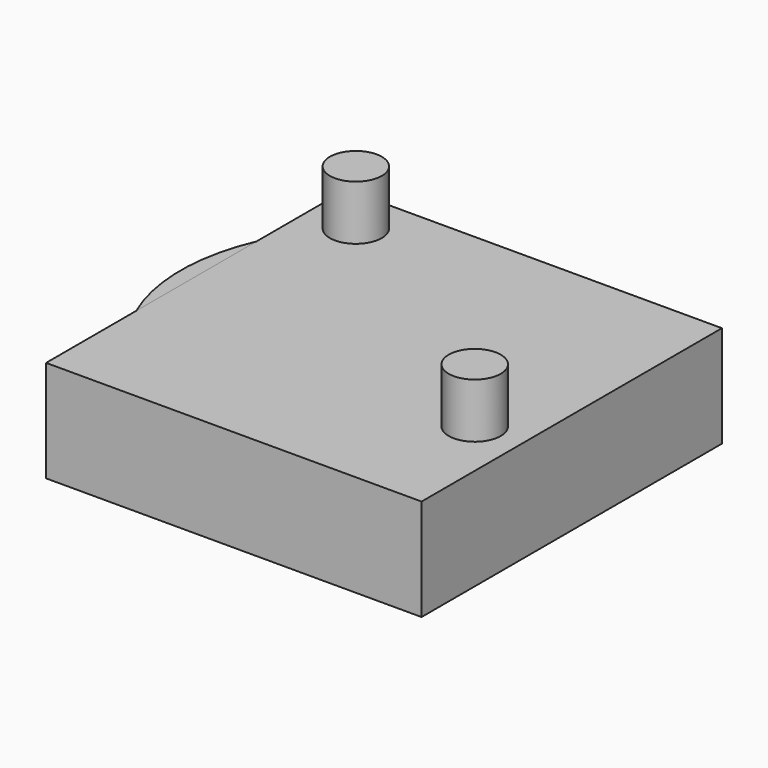
from build123d import *

# Parameters (mm, degrees)
CYLINDER027_R     = 4.55
CYLINDER027_DEPTH = 10
CYLINDER026_R     = 4.1
CYLINDER026_DEPTH = 10
CYLINDER033_R     = 1
CYLINDER033_DEPTH = 10
CYLINDER024_R     = 1.4
CYLINDER024_DEPTH = 10
ARRAY_COUNT       = 3
BOX001_W          = 9
BOX001_H          = 8
BOX001_DEPTH      = 2
FILLET_R          = 3
ARRAY001_COUNT    = 3
CYLINDER023_R     = 7
CYLINDER023_DEPTH = 2
CYLINDER034_R     = 2
CYLINDER034_DEPTH = 2
CYLINDER044_R     = 12
CYLINDER044_DEPTH = 6.5
CYLINDER_R        = 1.66
CYLINDER_DEPTH    = 10
BOX_W             = 24
BOX_H             = 24
BOX_DEPTH         = 6.5
CYLINDER045_R     = 1.66
CYLINDER045_DEPTH = 10
CYLINDER049_R     = 4.55
CYLINDER049_DEPTH = 10
CYLINDER048_R     = 4.1
CYLINDER048_DEPTH = 10
CYLINDER046_R     = 1
CYLINDER046_DEPTH = 10
CYLINDER047_R     = 1.4
CYLINDER047_DEPTH = 10
ARRAY002_COUNT    = 3
BOX002_W          = 9
BOX002_H          = 8
BOX002_DEPTH      = 2
FILLET001_R       = 3
ARRAY003_COUNT    = 3
CYLINDER050_R     = 7
CYLINDER050_DEPTH = 2
CYLINDER051_R     = 2
CYLINDER051_DEPTH = 2


with BuildPart() as mountplatelip:
    # Cylinder027 → Cylinder027 (new body)
    with BuildSketch(Plane.XY.offset(0.6)):
        Circle(CYLINDER027_R)
    extrude(amount=CYLINDER027_DEPTH)


with BuildPart() as mountplateinnerhole:
    # Cylinder026 → Cylinder026 (new body)
    with BuildSketch(Plane.XY):
        Circle(CYLINDER026_R)
    extrude(amount=CYLINDER026_DEPTH)


with BuildPart() as cylinder018:
    # Cylinder033 → Cylinder033 (new body)
    with BuildSketch(Plane(origin=(-7, 0, 0), x_dir=(1, 0, 0), z_dir=(0, 0, 1))):
        Circle(CYLINDER033_R)
    extrude(amount=CYLINDER033_DEPTH)


with BuildPart() as fusion009:
    # Cylinder024 → Cylinder024 (new body)
    with BuildSketch(Plane(origin=(8, 0, 0), x_dir=(1, 0, 0), z_dir=(0, 0, 1))):
        Circle(CYLINDER024_R)
    extrude(amount=CYLINDER024_DEPTH)

    # Array: Fusion009 ×3 about axis
    array_axis = Axis((0, 0, 0), (0, 0, 1))


with BuildPart() as fusion009_1:
    add(fusion009.part)
    for i in range(1, ARRAY_COUNT):
        add(fusion009.part.rotate(array_axis, i * 360 / ARRAY_COUNT))

    # Fusion009: union MountPlateLip, MountPlateInnerHole, Cylinder018
    add(mountplatelip.part)
    add(mountplateinnerhole.part)
    add(cylinder018.part)


with BuildPart() as array001:
    # Box001 → Box001 (new body)
    with BuildSketch(Plane(origin=(2.5, -4, 0), x_dir=(1, 0, 0), z_dir=(0, 0, 1))):
        with Locations((4.5, 4)):
            Rectangle(BOX001_W, BOX001_H)
    extrude(amount=BOX001_DEPTH)

    # Fillet
    fillet_edges = [array001.edges().sort_by_distance(p)[0] for p in [
        (11.5, -4, 1),
        (11.5, 4, 1),
    ]]
    fillet(fillet_edges, radius=FILLET_R)

    # Array001: Array001 ×3 about axis
    array001_axis = Axis((0, 0, 0), (0, 0, 1))


with BuildPart() as array001_1:
    add(array001.part)
    for i in range(1, ARRAY001_COUNT):
        add(array001.part.rotate(array001_axis, i * 360 / ARRAY001_COUNT))


with BuildPart() as mountplatebody:
    # Cylinder023 → Cylinder023 (new body)
    with BuildSketch(Plane.XY):
        Circle(CYLINDER023_R)
    extrude(amount=CYLINDER023_DEPTH)


with BuildPart() as cut010:
    # Cylinder034 → Cylinder034 (new body)
    with BuildSketch(Plane(origin=(-7, 0, 0), x_dir=(1, 0, 0), z_dir=(0, 0, 1))):
        Circle(CYLINDER034_R)
    extrude(amount=CYLINDER034_DEPTH)

    # Fusion008: union Array001, MountPlateBody
    add(array001_1.part)
    add(mountplatebody.part)

    # Cut010: cut Fusion009
    add(fusion009_1.part, mode=Mode.SUBTRACT)


with BuildPart() as cylinder026:
    # Cylinder044 → Cylinder044 (new body)
    with BuildSketch(Plane.XY):
        Circle(CYLINDER044_R)
    extrude(amount=CYLINDER044_DEPTH)


with BuildPart() as sprue:
    # Cylinder → Cylinder (new body)
    with BuildSketch(Plane(origin=(10, -4, 0), x_dir=(1, 0, 0), z_dir=(0, 0, 1))):
        Circle(CYLINDER_R)
    extrude(amount=CYLINDER_DEPTH)


with BuildPart() as cube:
    # Box → Box (new body)
    with BuildSketch(Plane(origin=(-11, -12, 0), x_dir=(1, 0, 0), z_dir=(0, 0, 1))):
        with Locations((12, 12)):
            Rectangle(BOX_W, BOX_H)
    extrude(amount=BOX_DEPTH)


with BuildPart() as sprue001:
    # Cylinder045 → Cylinder045 (new body)
    with BuildSketch(Plane(origin=(-8, 9, 0), x_dir=(1, 0, 0), z_dir=(0, 0, 1))):
        Circle(CYLINDER045_R)
    extrude(amount=CYLINDER045_DEPTH)


with BuildPart() as mountplatelip001:
    # Cylinder049 → Cylinder049 (new body)
    with BuildSketch(Plane.XY.offset(0.6)):
        Circle(CYLINDER049_R)
    extrude(amount=CYLINDER049_DEPTH)


with BuildPart() as mountplateinnerhole001:
    # Cylinder048 → Cylinder048 (new body)
    with BuildSketch(Plane.XY):
        Circle(CYLINDER048_R)
    extrude(amount=CYLINDER048_DEPTH)


with BuildPart() as cylinder027:
    # Cylinder046 → Cylinder046 (new body)
    with BuildSketch(Plane(origin=(-7, 0, 0), x_dir=(1, 0, 0), z_dir=(0, 0, 1))):
        Circle(CYLINDER046_R)
    extrude(amount=CYLINDER046_DEPTH)


with BuildPart() as fusion011:
    # Cylinder047 → Cylinder047 (new body)
    with BuildSketch(Plane(origin=(8, 0, 0), x_dir=(1, 0, 0), z_dir=(0, 0, 1))):
        Circle(CYLINDER047_R)
    extrude(amount=CYLINDER047_DEPTH)

    # Array002: Fusion011 ×3 about axis
    array002_axis = Axis((0, 0, 0), (0, 0, 1))


with BuildPart() as fusion011_1:
    add(fusion011.part)
    for i in range(1, ARRAY002_COUNT):
        add(fusion011.part.rotate(array002_axis, i * 360 / ARRAY002_COUNT))

    # Fusion011: union MountPlateLip001, MountPlateInnerHole001, Cylinder027
    add(mountplatelip001.part)
    add(mountplateinnerhole001.part)
    add(cylinder027.part)


with BuildPart() as array003:
    # Box002 → Box002 (new body)
    with BuildSketch(Plane(origin=(2.5, -4, 0), x_dir=(1, 0, 0), z_dir=(0, 0, 1))):
        with Locations((4.5, 4)):
            Rectangle(BOX002_W, BOX002_H)
    extrude(amount=BOX002_DEPTH)

    # Fillet001
    fillet001_edges = [array003.edges().sort_by_distance(p)[0] for p in [
        (11.5, -4, 1),
        (11.5, 4, 1),
    ]]
    fillet(fillet001_edges, radius=FILLET001_R)

    # Array003: Array003 ×3 about axis
    array003_axis = Axis((0, 0, 0), (0, 0, 1))


with BuildPart() as array003_1:
    add(array003.part)
    for i in range(1, ARRAY003_COUNT):
        add(array003.part.rotate(array003_axis, i * 360 / ARRAY003_COUNT))


with BuildPart() as mountplatebody001:
    # Cylinder050 → Cylinder050 (new body)
    with BuildSketch(Plane.XY):
        Circle(CYLINDER050_R)
    extrude(amount=CYLINDER050_DEPTH)


with BuildPart() as cut011:
    # Cylinder051 → Cylinder051 (new body)
    with BuildSketch(Plane(origin=(-7, 0, 0), x_dir=(1, 0, 0), z_dir=(0, 0, 1))):
        Circle(CYLINDER051_R)
    extrude(amount=CYLINDER051_DEPTH)

    # Fusion010: union Array003, MountPlateBody001
    add(array003_1.part)
    add(mountplatebody001.part)

    # Cut011: cut Fusion011
    add(fusion011_1.part, mode=Mode.SUBTRACT)


solid = Compound([cut010.part, cylinder026.part, sprue.part, cube.part, sprue001.part, cut011.part])
